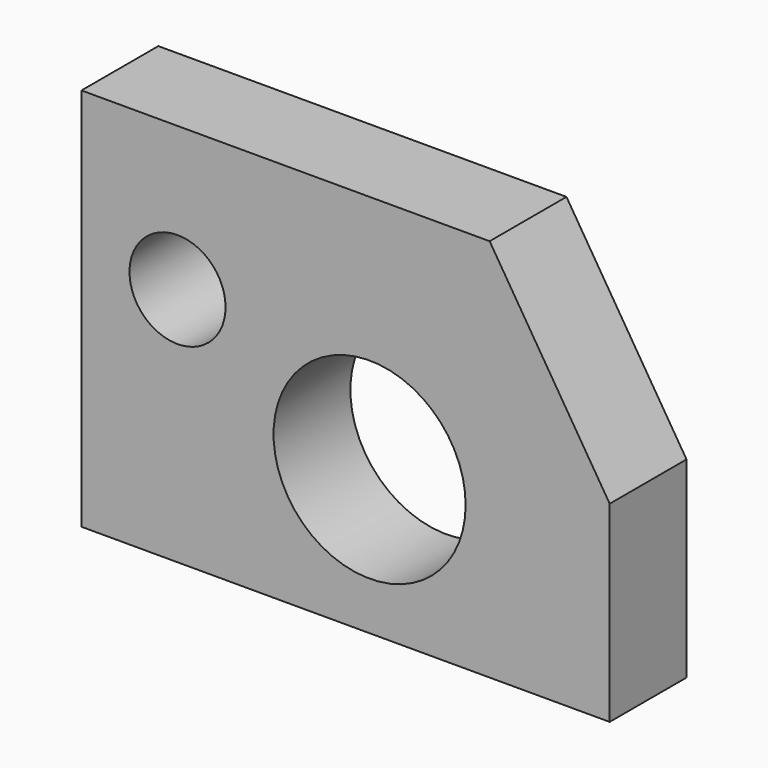
from build123d import *

# Parameters (mm, degrees)
F0_R     = 25.4
F0_R_2   = 12.7
F1_DEPTH = 25.4


with BuildPart() as f1:
    # F0 (on Front) → F1 (new body)
    with BuildSketch(Plane.XZ):
        Polygon((-76.2, -38.1), (63.5, -38.1), (63.5, 12.7), (31.75, 63.5), (-76.2, 63.5), align=None)
        Circle(F0_R, mode=Mode.SUBTRACT)
        with Locations((-50.8, 25.4)):
            Circle(F0_R_2, mode=Mode.SUBTRACT)
    extrude(amount=F1_DEPTH)


solid = f1.part
